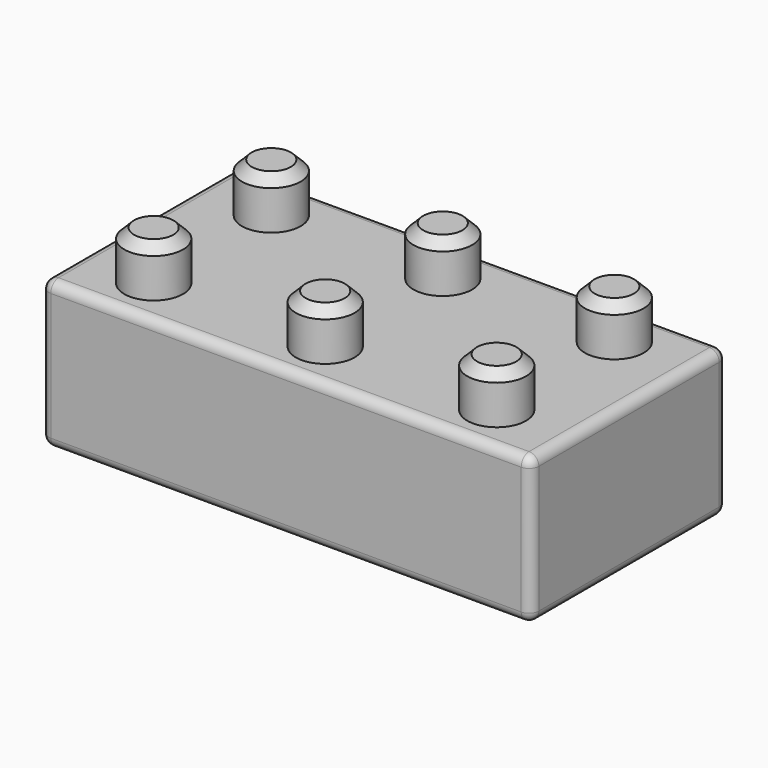
from build123d import *

# Parameters (mm, degrees)
F0_W      = 100
F0_H      = 50
F1_DEPTH  = 30
F2_R      = 6
F3_DEPTH  = 10
F4_R      = 2
F5_SIZE   = 2
F3_FACE_R = 4
F6_DEPTH  = 5


with BuildPart() as f1:
    # F0 (on Top) → F1 (new body)
    with BuildSketch(Plane.XY):
        Rectangle(F0_W, F0_H)
    extrude(amount=F1_DEPTH)

    # F2 (on face) → F3 (join)
    with BuildSketch(Plane.XY.offset(30)):
        with Locations((35, 15)):
            Circle(F2_R)
        with Locations((35, -15)):
            Circle(F2_R)
        with Locations((0, -15)):
            Circle(F2_R)
        with Locations((0, 15)):
            Circle(F2_R)
        with Locations((-35, 15)):
            Circle(F2_R)
        with Locations((-35, -15)):
            Circle(F2_R)
    extrude(amount=F3_DEPTH)

    # F4
    f4_edges = [f1.edges().sort_by_distance(p)[0] for p in [
        (50, 0, 30),
        (0, -25, 30),
        (0, 25, 30),
        (-50, 0, 30),
        (50, -25, 15),
        (50, 25, 15),
        (50, 0, 0),
        (-50, -25, 15),
        (0, -25, 0),
        (-50, 25, 15),
        (0, 25, 0),
        (-50, 0, 0),
    ]]
    fillet(f4_edges, radius=F4_R)

    # F5
    f5_edges = [f1.edges().sort_by_distance(p)[0] for p in [
        (-41, 15, 40),
        (-41, -15, 40),
        (-6, -15, 40),
        (-6, 15, 40),
        (29, 15, 40),
        (29, -15, 40),
    ]]
    chamfer(f5_edges, length=F5_SIZE)

    # F3_face (on face) → F6 (join)
    with BuildSketch(Plane(origin=(-35, -15, 40), x_dir=(1, 0, 0), z_dir=(0, 0, 1))):
        Circle(F3_FACE_R)
    extrude(amount=-F6_DEPTH)


solid = f1.part
